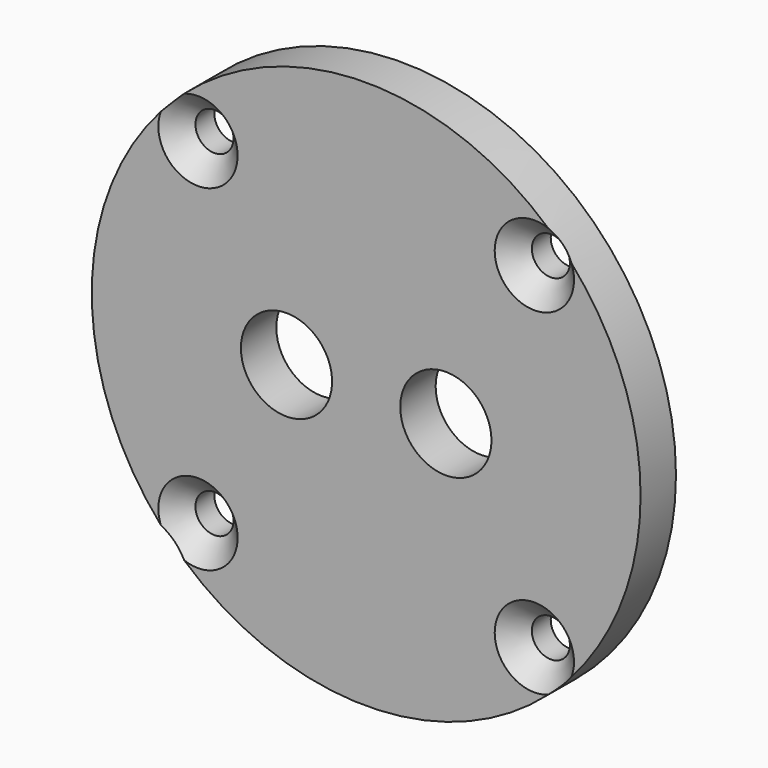
from build123d import *

# Parameters (mm, degrees)
F0_R           = 31
F1_DEPTH       = 5
F2_D           = 10.3
F3_D           = 4.3
F3_CSINK_D     = 8.96
F3_CSINK_ANGLE = 90


with BuildPart() as f1:
    # F0 (on Front) → F1 (new body)
    with BuildSketch(Plane.XZ):
        Circle(F0_R)
    extrude(amount=-F1_DEPTH)

    # F2 (through all)
    with Locations(Plane.XZ):
        with Locations((-9, 0), (9, 0)):
            Hole(F2_D / 2)

    # F3 (through all)
    with Locations(Plane.XZ):
        with Locations((-19, 19), (19, 19), (19, -19), (-19, -19)):
            CounterSinkHole(F3_D / 2, F3_CSINK_D / 2, counter_sink_angle=F3_CSINK_ANGLE)


solid = f1.part
